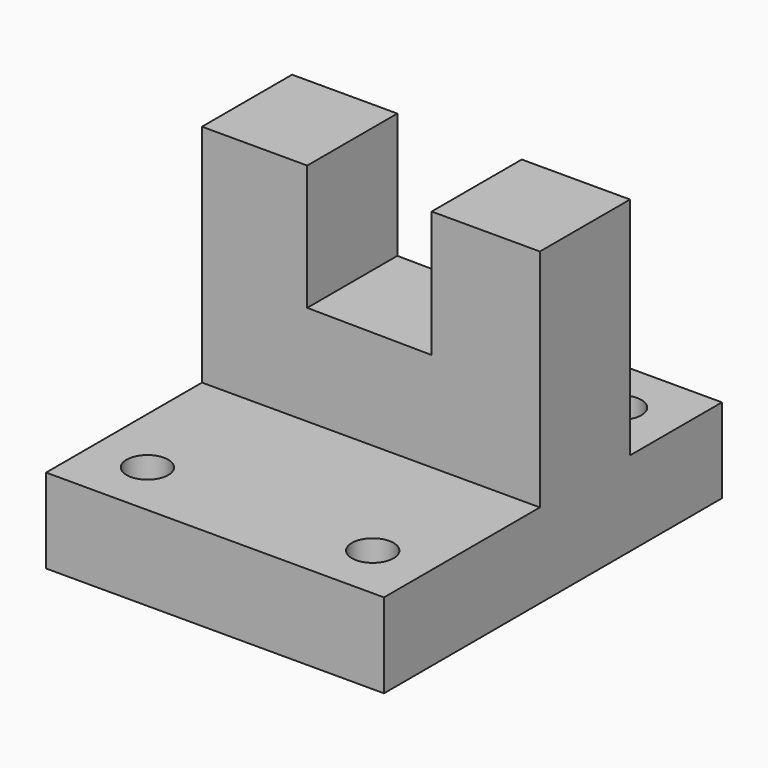
from build123d import *

# Parameters (mm, degrees)
F0_W     = 76.2
F0_H     = 95.25
F1_DEPTH = 69.85
F3_DEPTH = 51.308
F4_W     = 44.45
F4_H     = 50.789239
F4_H_2   = 3.390253
F4_W_2   = 28.497008
F5_DEPTH = 133.35
F6_R     = 4.699
F7_DEPTH = 164.846


with BuildPart() as f1:
    # F0 (on Top) → F1 (new body)
    with BuildSketch(Plane.XY):
        with Locations((9.872094, 1.178516)):
            Rectangle(F0_W, F0_H)
    extrude(amount=F1_DEPTH)

    # F2 (on Front) → F3 (cut, symmetric)
    with BuildSketch(Plane.XZ):
        Polygon((23.562269, 41.361105), (23.562269, 69.936105), (-4.496123, 70.178263), (-4.496123, 41.603263), align=None)
    extrude(amount=F3_DEPTH, both=True, mode=Mode.SUBTRACT)

    # F4 (on Right) → F5 (cut, symmetric)
    with BuildSketch(Plane.YZ):
        with Locations((-24.730019, 44.444619)):
            Rectangle(F4_W, F4_H)
        Polygon((-52.010767, 19.05), (-46.955019, 19.05), (-46.955019, 69.839239), (-46.955019, 73.229492), (-52.010767, 73.229492), align=None)
        with Locations((-24.730019, 71.534365)):
            Rectangle(F4_W, F4_H_2)
        Polygon((51.391989, 69.839239), (22.894981, 69.839239), (22.894981, 19.05), (48.294981, 19.05), (51.391989, 19.05), align=None)
        with Locations((37.143485, 71.534365)):
            Rectangle(F4_W_2, F4_H_2)
    extrude(amount=F5_DEPTH, both=True, mode=Mode.SUBTRACT)

    # F6 (on Top) → F7 (cut)
    with BuildSketch(Plane.XY):
        with Locations((-15.527906, 36.103516)):
            Circle(F6_R)
        with Locations((35.272094, 36.103516)):
            Circle(F6_R)
        with Locations((-15.527906, -33.746484)):
            Circle(F6_R)
        with Locations((35.272094, -33.746484)):
            Circle(F6_R)
    extrude(amount=F7_DEPTH, mode=Mode.SUBTRACT)


solid = f1.part
